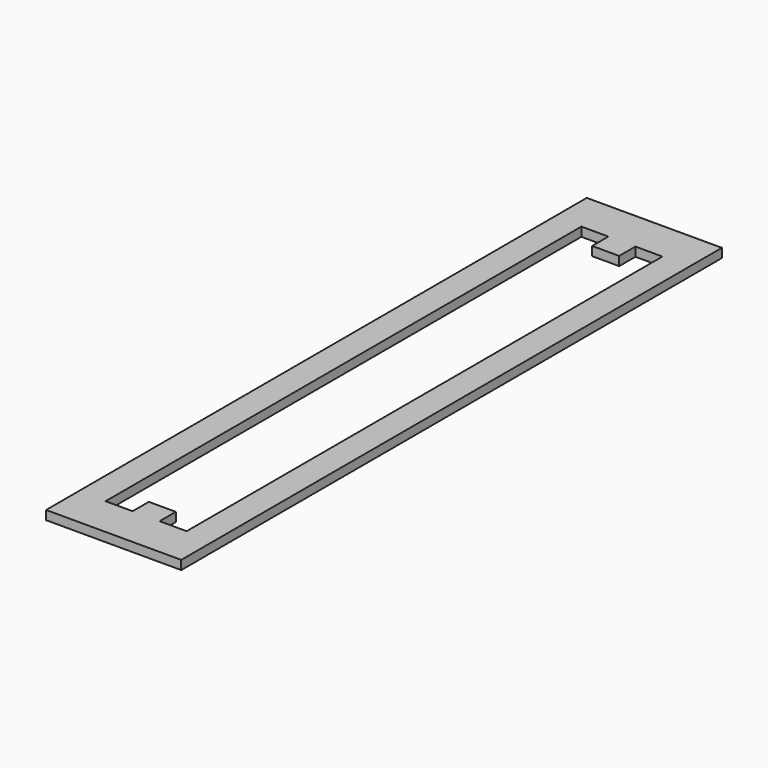
from build123d import *

# Parameters (mm, degrees)
F0_W     = 30
F0_H     = 150
F1_DEPTH = 2


with BuildPart() as f1:
    # F0 (on Top) → F1 (new body)
    with BuildSketch(Plane.XY):
        with Locations((15, 75)):
            Rectangle(F0_W, F0_H)
        Polygon((6, 9), (6, 141), (12, 141), (12, 136.5), (18, 136.5), (18, 141), (24, 141), (24, 9), (18, 9), (18, 13.5), (12, 13.5), (12, 9), align=None, mode=Mode.SUBTRACT)
    extrude(amount=F1_DEPTH)


solid = f1.part
